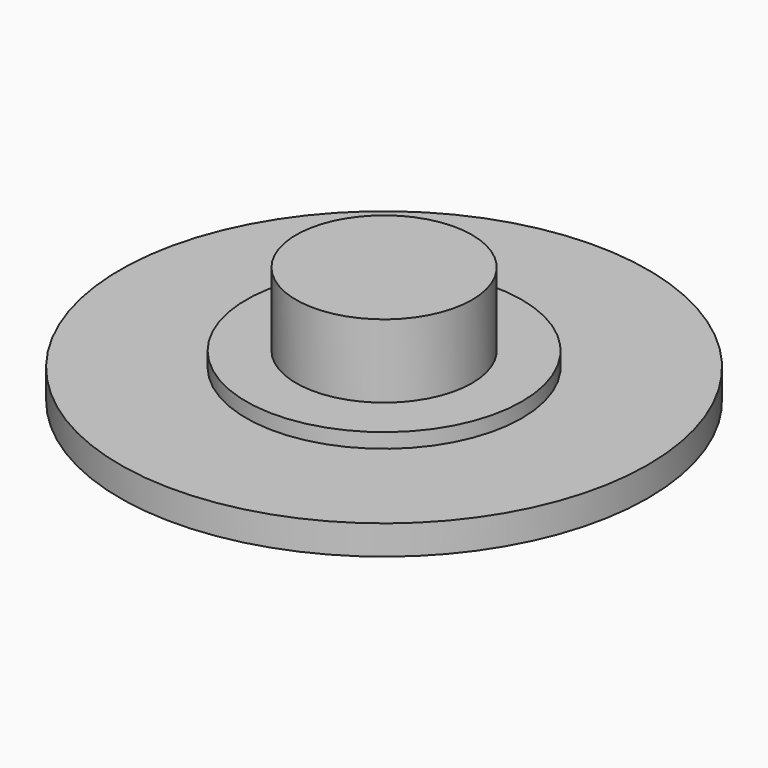
from build123d import *

# Parameters (mm, degrees)
F0_R     = 3
F1_DEPTH = 4
F0_R_2   = 9
F0_R_3   = 4.7
F2_DEPTH = 1
F3_DEPTH = 1.5


with BuildPart() as f1:
    # F0 (on Top) → F1 (new body)
    with BuildSketch(Plane.XY):
        Circle(F0_R)
    extrude(amount=F1_DEPTH)



with BuildPart() as f2:
    # F0 (on Top) → F2 (new body)
    with BuildSketch(Plane.XY):
        Circle(F0_R_2)
        Circle(F0_R_3, mode=Mode.SUBTRACT)
    extrude(amount=F2_DEPTH)


with BuildPart() as f1_1:
    add(f1.part)

    add(f2.part)  # F3 merges F2
    # F0 (on Top) → F3 (join)
    with BuildSketch(Plane.XY):
        Circle(F0_R_3)
        Circle(F0_R, mode=Mode.SUBTRACT)
    extrude(amount=F3_DEPTH)


solid = f1_1.part
